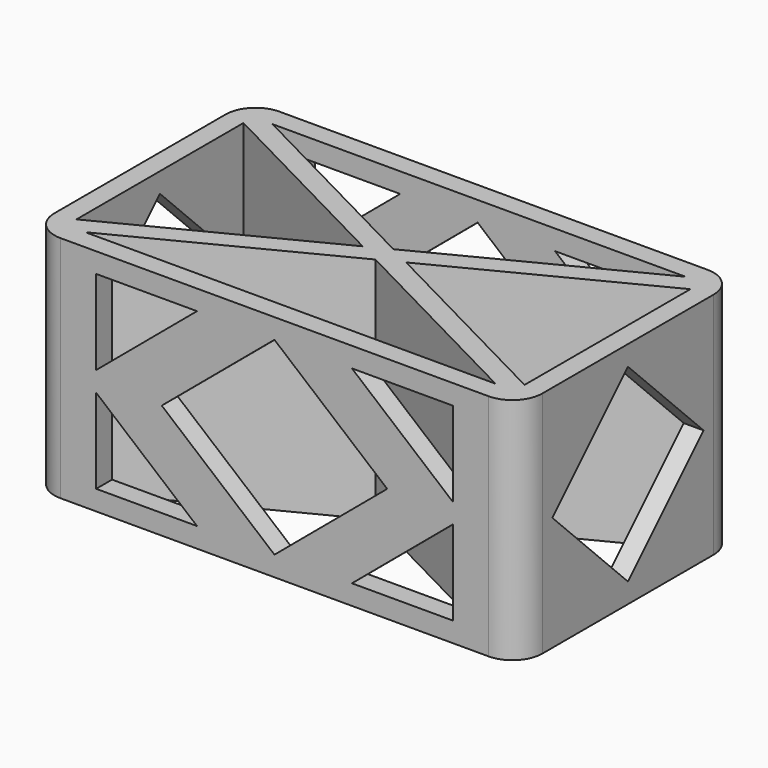
from build123d import *

# Parameters (mm, degrees)
F1_DEPTH = 23
F3_DEPTH = 40
F5_DEPTH = 60
F6_DEPTH = 23


with BuildPart() as f1:
    # F0 (on Top) → F1 (new body)
    with BuildSketch(Plane.XY):
        with BuildLine():
            ThreePointArc((-24.5, -10.75), (-23.62132, -12.87132), (-21.5, -13.75))
            Line((-21.5, -13.75), (21.5, -13.75))
            ThreePointArc((21.5, -13.75), (23.62132, -12.87132), (24.5, -10.75))
            Line((24.5, -10.75), (24.5, 10.75))
            ThreePointArc((24.5, 10.75), (23.62132, 12.87132), (21.5, 13.75))
            Line((21.5, 13.75), (-21.5, 13.75))
            ThreePointArc((-21.5, 13.75), (-23.62132, 12.87132), (-24.5, 10.75))
            Line((-24.5, 10.75), (-24.5, -10.75))
        make_face()
        with BuildLine():
            ThreePointArc((-21.5, -11.75), (-22.207107, -11.457107), (-22.5, -10.75))
            Line((-22.5, -10.75), (-22.5, -10.483528))
            Line((-22.5, -10.483528), (-22.5, 10.482972))
            Line((-22.5, 10.482972), (-22.5, 10.75))
            ThreePointArc((-22.5, 10.75), (-22.207107, 11.457107), (-21.5, 11.75))
            Line((-21.5, 11.75), (-20.593776, 11.75))
            Line((-20.593776, 11.75), (20.879046, 11.75))
            Line((20.879046, 11.75), (21.5, 11.75))
            ThreePointArc((21.5, 11.75), (22.207107, 11.457107), (22.5, 10.75))
            Line((22.5, 10.75), (22.5, 10.333408))
            Line((22.5, 10.333408), (22.5, -10.482972))
            Line((22.5, -10.482972), (22.5, -10.75))
            ThreePointArc((22.5, -10.75), (22.207107, -11.457107), (21.5, -11.75))
            Line((21.5, -11.75), (20.593776, -11.75))
            Line((20.593776, -11.75), (-20.586152, -11.75))
            Line((-20.586152, -11.75), (-21.5, -11.75))
        make_face(mode=Mode.SUBTRACT)
    extrude(amount=F1_DEPTH)

    # F2 (on face) → F3 (cut)
    with BuildSketch(Plane.XZ.offset(13.75)):
        Polygon((-17.908525, 12.5), (-7.778619, 21), (-17.908525, 21), align=None)
        Polygon((-11.321659, 11.5), (0, 2), (11.321659, 11.5), (0, 21), align=None)
        Polygon((-17.908525, 2), (-7.778619, 2), (-17.908525, 10.5), align=None)
        Polygon((17.908525, 10.5), (7.778619, 2), (17.908525, 2), align=None)
        Polygon((17.908525, 21), (7.778619, 21), (17.908525, 12.5), align=None)
    extrude(amount=-F3_DEPTH, mode=Mode.SUBTRACT)

    # F4 (on face) → F5 (cut)
    with BuildSketch(Plane.YZ.offset(24.5)):
        Polygon((-9.5, 11.5), (0, 2), (9.5, 11.5), (0, 21), align=None)
    extrude(amount=-F5_DEPTH, mode=Mode.SUBTRACT)

    # F0 (on Top) → F6 (join)
    with BuildSketch(Plane.XY):
        with BuildLine():
            Line((-22.5, -10.483528), (-22.5, -10.75))
            ThreePointArc((-22.5, -10.75), (-22.207107, -11.457107), (-21.5, -11.75))
            Line((-21.5, -11.75), (-20.586152, -11.75))
            Line((-20.586152, -11.75), (0.07148, -1.162122))
            Line((0.07148, -1.162122), (20.593776, -11.75))
            Line((20.593776, -11.75), (21.5, -11.75))
            ThreePointArc((21.5, -11.75), (22.207107, -11.457107), (22.5, -10.75))
            Line((22.5, -10.75), (22.5, -10.482972))
            Line((22.5, -10.482972), (2.259688, -0.040576))
            Line((2.259688, -0.040576), (22.5, 10.333408))
            Line((22.5, 10.333408), (22.5, 10.75))
            ThreePointArc((22.5, 10.75), (22.207107, 11.457107), (21.5, 11.75))
            Line((21.5, 11.75), (20.879046, 11.75))
            Line((20.879046, 11.75), (0.074486, 1.086815))
            Line((0.074486, 1.086815), (-20.593776, 11.75))
            Line((-20.593776, 11.75), (-21.5, 11.75))
            ThreePointArc((-21.5, 11.75), (-22.207107, 11.457107), (-22.5, 10.75))
            Line((-22.5, 10.75), (-22.5, 10.482972))
            Line((-22.5, 10.482972), (-2.113723, -0.034731))
            Line((-2.113723, -0.034731), (-22.5, -10.483528))
        make_face()
    extrude(amount=F6_DEPTH)


solid = f1.part
